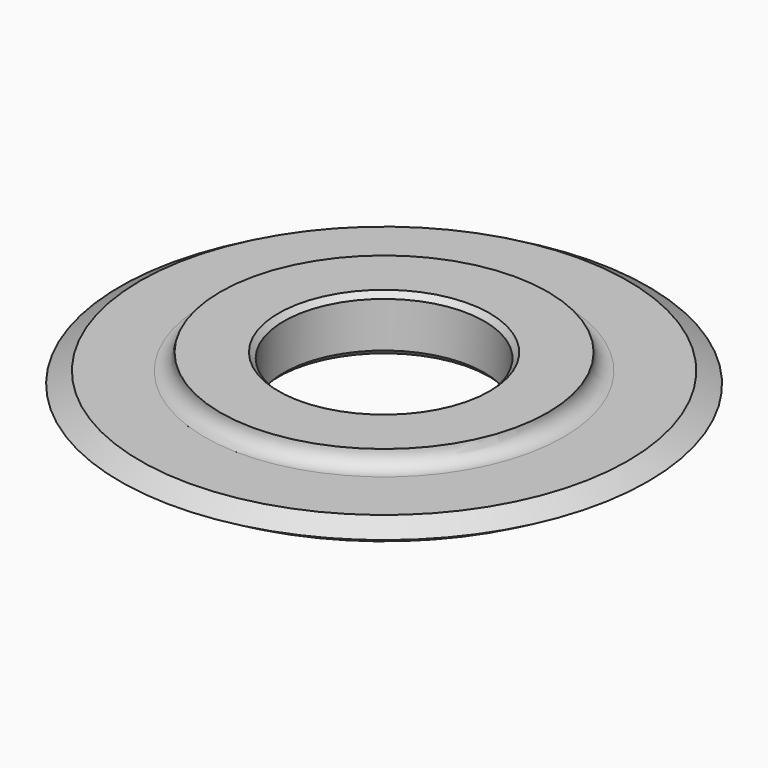
from build123d import *

# Parameters (mm, degrees)
F0_R     = 25
F0_R_2   = 9.5
F1_DEPTH = 2.65
F4_R     = 1.5
F5_SIZE  = 0.5


with BuildPart() as f1:
    # F0 (on Top) → F1 (new body, symmetric)
    with BuildSketch(Plane.XY):
        Circle(F0_R)
        Circle(F0_R_2, mode=Mode.SUBTRACT)
    extrude(amount=F1_DEPTH, both=True)

    # F2 (on Front) → F3 (revolve, cut)
    with BuildSketch(Plane.XZ):
        Polygon((42.872044, 12.488453), (15.5, 2.65), (15.5, 1.1), (23.094744, 1.1), (25, 0), (23.094744, -1.1), (15.5, -1.1), (15.5, -2.672665), (42.872044, -11.621938), align=None)
    revolve(axis=Axis((0, 0, -3.257056), (0, 0, -1)), mode=Mode.SUBTRACT)

    # F4
    f4_edges = [f1.edges().sort_by_distance(p)[0] for p in [
        (-15.5, 0, 1.1),
        (-15.5, 0, -1.1),
    ]]
    fillet(f4_edges, radius=F4_R)

    # F5
    f5_edges = [f1.edges().sort_by_distance(p)[0] for p in [
        (-9.5, 0, 2.65),
        (-9.5, 0, -2.65),
    ]]
    chamfer(f5_edges, length=F5_SIZE)


solid = f1.part
